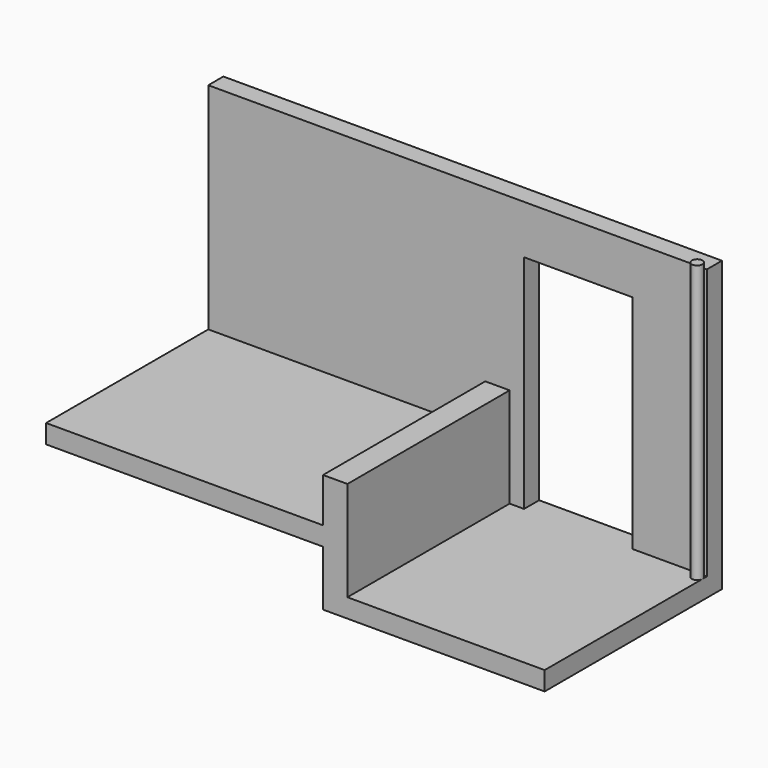
from build123d import *

# Parameters (mm, degrees)
F1_DEPTH = 170
F3_DEPTH = 2000
F4_R     = 48
F5_DEPTH = 2500


with BuildPart() as f1:
    # F0 (on Front) → F1 (new body)
    with BuildSketch(Plane.XZ):
        Polygon((-2500, 0), (0, 0), (0, 400), (220, 400), (220, -500), (350, -500), (350, 1500), (1330, 1500), (1330, -500), (2000, -500), (2000, 1940), (-2500, 1940), align=None)
    extrude(amount=-F1_DEPTH)

    # F2 (on face) → F3 (join)
    with BuildSketch(Plane(origin=(0, 170, 0), x_dir=(-1, 0, 0), z_dir=(0, 1, 0))):
        Polygon((2500, -170), (2500, 0), (0, 0), (0, 400), (-220, 400), (-220, -500), (-2000, -500), (-2000, -670), (0, -670), (0, -170), align=None)
    extrude(amount=-F3_DEPTH)

    # F4 (on face) → F5 (join)
    with BuildSketch(Plane.XY.offset(-500)):
        with Locations((1952, -49)):
            Circle(F4_R)
    extrude(amount=F5_DEPTH)


solid = f1.part
